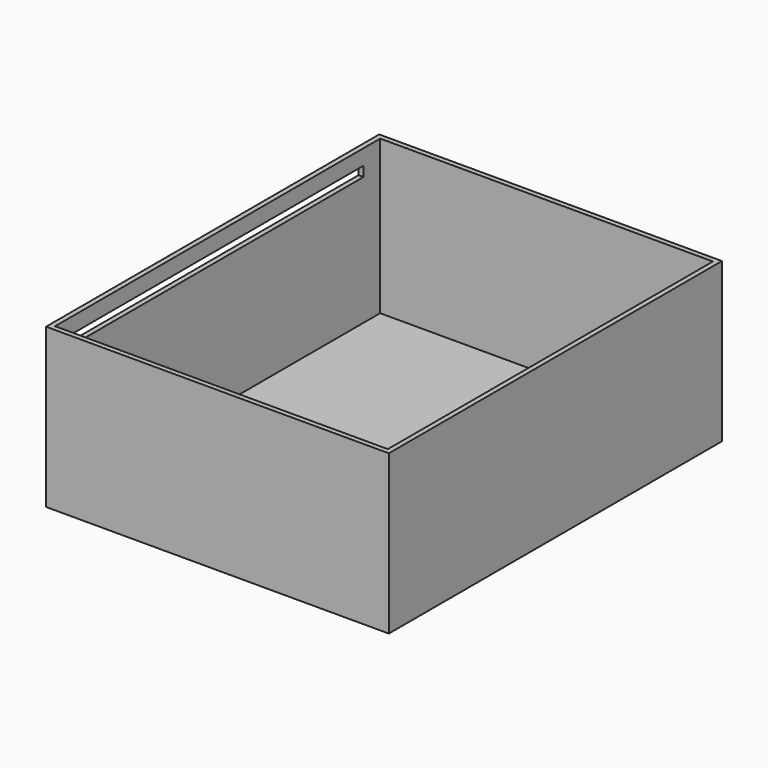
from build123d import *

# Parameters (mm, degrees)
F0_W     = 174.4176968932
F0_H     = 211.885496974
F1_DEPTH = 80.772
F2_T     = -2.54
F3_W     = 186.191752553
F3_H     = 5.066819489
F4_DEPTH = 11.938


with BuildPart() as f1:
    # F0 (on Top) → F1 (new body)
    with BuildSketch(Plane.XY):
        with Locations((-0.6318576634, 1.6548894346)):
            Rectangle(F0_W, F0_H)
    extrude(amount=F1_DEPTH)

    # F2
    f2_openings = [f1.faces().sort_by_distance(p)[0] for p in [
        (-0.631858, 1.654889, 80.772),
    ]]
    offset(amount=F2_T, openings=f2_openings)

    # F3 (on face) → F4 (cut)
    with BuildSketch(Plane(origin=(-87.84070611, 0, 0), x_dir=(0, -1, 0), z_dir=(-1, 0, 0))):
        with Locations((-1.3709291816, 70.3899897635)):
            Rectangle(F3_W, F3_H)
    extrude(amount=-F4_DEPTH, mode=Mode.SUBTRACT)


solid = f1.part
